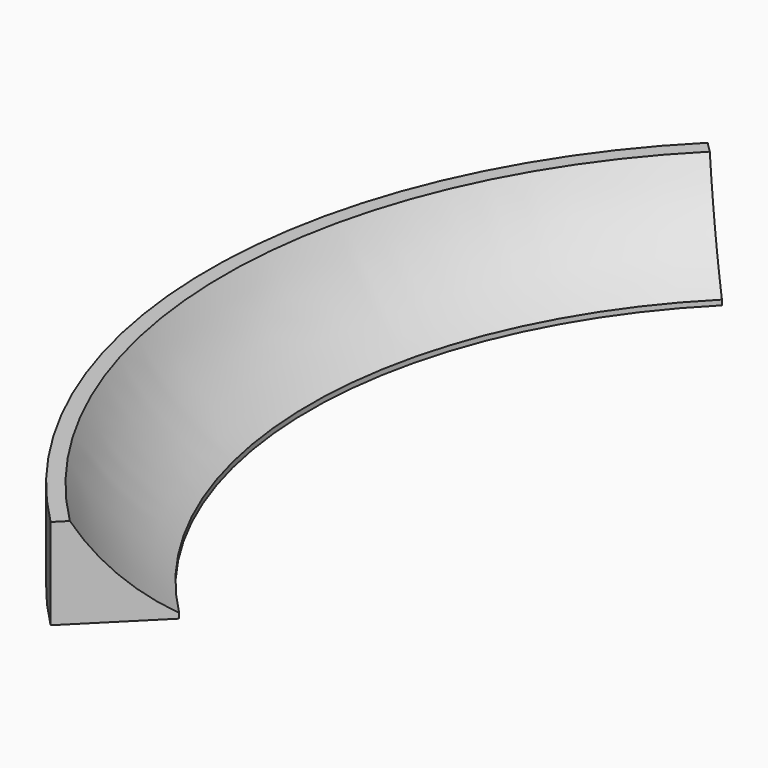
from build123d import *

# Parameters (mm, degrees)
REVOLUTION_ANGLE = 90
POCKET_DEPTH     = 3
SKETCH002_R      = 1.4
POCKET001_DEPTH  = 8


with BuildPart() as part:
    # Sketch → Revolution (revolve, symmetric)
    with BuildSketch(Plane.XZ) as revolution_sk:
        with BuildLine():
            Line((-95, 0), (-115, 0))
            Line((-115, 0), (-115, 18))
            Line((-115, 18), (-112, 18))
            ThreePointArc((-112, 18), (-104.619043, 8.380957), (-95, 1))
            Line((-95, 0), (-95, 1))
        make_face()
    revolve(axis=Axis((0, 0, 0), (0, 0, 1)), revolution_arc=REVOLUTION_ANGLE / 2)
    revolve(revolution_sk.sketch, axis=Axis((0, 0, 0), (0, 0, -1)), revolution_arc=REVOLUTION_ANGLE / 2)

    # Sketch001 (on Face1 of Revolution) → Pocket (cut)
    with BuildSketch(Plane(origin=(0, 0, 0), x_dir=(1, 0, 0), z_dir=(0, 0, -1))):
        with BuildLine():
            ThreePointArc((-110, 34), (-114, 30), (-110, 26))
            Line((-110, 26), (-100, 26))
            ThreePointArc((-100, 26), (-96, 30), (-100, 34))
            Line((-110, 34), (-100, 34))
        make_face()
        with BuildLine():
            ThreePointArc((-110, -26), (-114, -30), (-110, -34))
            Line((-110, -34), (-100, -34))
            ThreePointArc((-100, -34), (-96, -30), (-100, -26))
            Line((-110, -26), (-100, -26))
        make_face()
    extrude(amount=-POCKET_DEPTH, mode=Mode.SUBTRACT)

    # Sketch002 (on Face1 of Pocket) → Pocket001 (cut)
    with BuildSketch(Plane(origin=(0, 0, 0), x_dir=(1, 0, 0), z_dir=(0, 0, -1))):
        with Locations((-80, 70)):
            Circle(SKETCH002_R)
        with Locations((-80, -70)):
            Circle(SKETCH002_R)
        with Locations((-110, 0)):
            Circle(SKETCH002_R)
        with Locations((-100, -40)):
            Circle(SKETCH002_R)
        with Locations((-100, 40)):
            Circle(SKETCH002_R)
    extrude(amount=-POCKET001_DEPTH, mode=Mode.SUBTRACT)


solid = part.part
